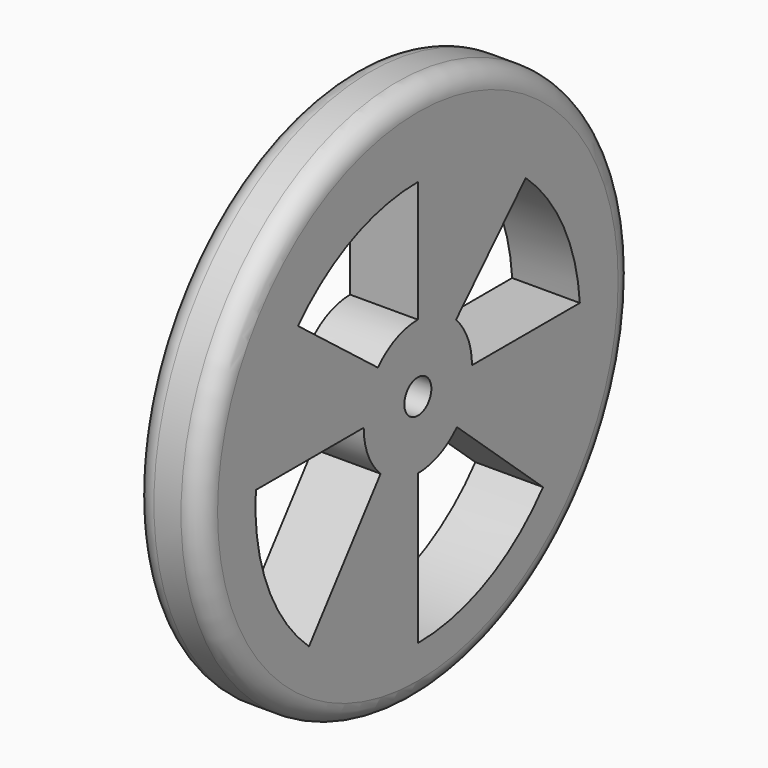
from build123d import *

# Parameters (mm, degrees)
F0_R     = 101.6
F1_DEPTH = 25.4
F3_DEPTH = 25.4
F4_R     = 7.62
F5_R     = 6.35
F6_DEPTH = 25.4


with BuildPart() as f1:
    # F0 (on Right) → F1 (new body)
    with BuildSketch(Plane.YZ):
        Circle(F0_R)
    extrude(amount=F1_DEPTH)

    # F2 (on face) → F3 (cut)
    with BuildSketch(Plane.YZ.offset(25.4)):
        with BuildLine():
            Line((-51.087433, -61.850464), (-17.482547, -18.426083))
            ThreePointArc((-17.482547, -18.426083), (-23.336845, -10.027545), (-25.4, 0))
            Line((-25.4, 0), (-76.01457, 0))
            ThreePointArc((-76.01457, 0), (-70.67602, -33.796775), (-51.087433, -61.850464))
        make_face()
        with BuildLine():
            Line((58.748065, -53.842163), (18.349848, -17.562547))
            ThreePointArc((18.349848, -17.562547), (9.976755, -23.358603), (0, -25.4))
            Line((0, -25.4), (0, -81.512741))
            ThreePointArc((0, -81.512741), (32.469201, -74.248878), (58.748065, -53.842163))
        make_face()
        with BuildLine():
            ThreePointArc((17.89198, 18.028784), (23.447988, 9.764828), (25.4, 0))
            Line((25.4, 0), (76.01457, 0))
            ThreePointArc((76.01457, 0), (68.385887, 28.299913), (50.639288, 51.626723))
            Line((50.639288, 51.626723), (17.89198, 18.028784))
        make_face()
        with BuildLine():
            ThreePointArc((-18.739308, 17.146379), (-10.238212, 23.245193), (0, 25.4))
            Line((0, 25.4), (0, 70.887259))
            ThreePointArc((0, 70.887259), (-30.706062, 64.426615), (-56.205274, 46.14022))
            Line((-56.205274, 46.14022), (-18.739308, 17.146379))
        make_face()
    extrude(amount=-F3_DEPTH, mode=Mode.SUBTRACT)

    # F4
    f4_edges = [f1.edges().sort_by_distance(p)[0] for p in [
        (25.4, -101.6, 0),
        (0, -101.6, 0),
    ]]
    fillet(f4_edges, radius=F4_R)

    # F5 (on face) → F6 (cut)
    with BuildSketch(Plane.YZ.offset(25.4)):
        Circle(F5_R)
    extrude(amount=-F6_DEPTH, mode=Mode.SUBTRACT)


solid = f1.part
